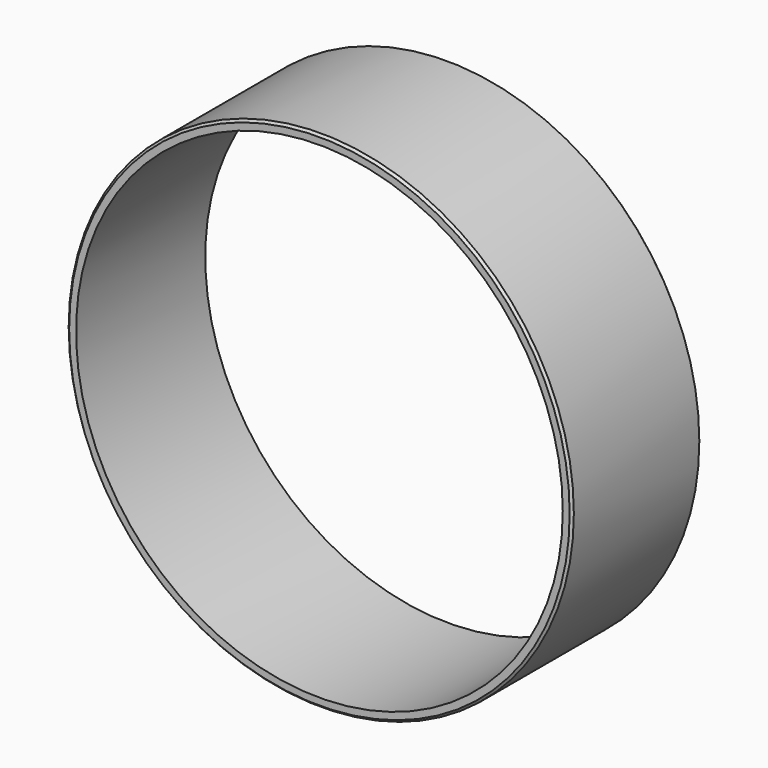
from build123d import *

# Parameters (mm, degrees)
F0_R     = 109.5
F0_R_2   = 105.5
F1_DEPTH = 70
F2_SIZE  = 1


with BuildPart() as f1:
    # F0 (on Front) → F1 (new body)
    with BuildSketch(Plane.XZ):
        Circle(F0_R)
        Circle(F0_R_2, mode=Mode.SUBTRACT)
    extrude(amount=F1_DEPTH)

    # F2
    f2_edges = [f1.edges().sort_by_distance(p)[0] for p in [
        (-109.5, -70, 0),
        (-109.5, 0, 0),
    ]]
    chamfer(f2_edges, length=F2_SIZE)


solid = f1.part
